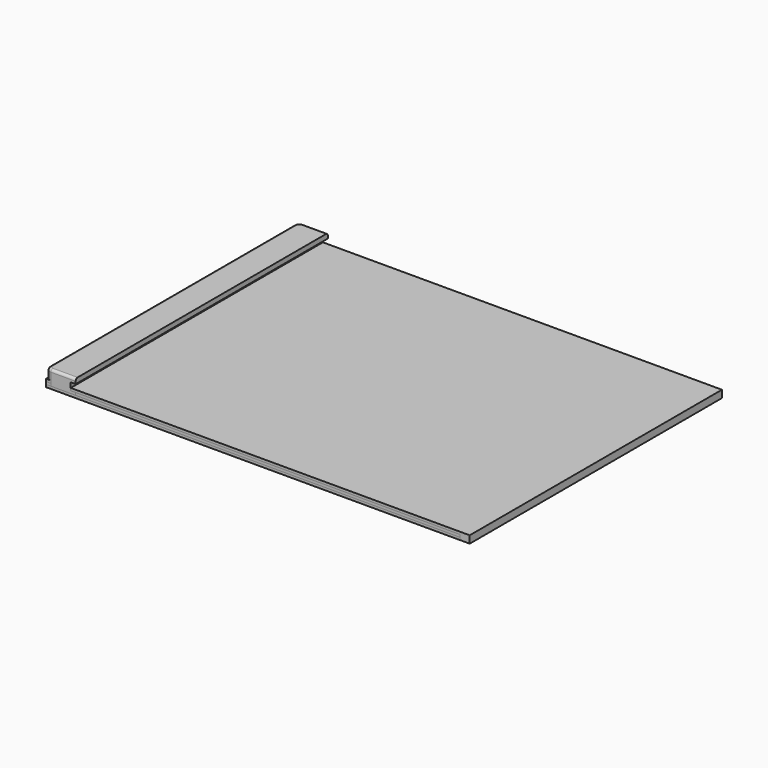
from build123d import *

# Parameters (mm, degrees)
F0_W      = 546.1
F0_H      = 406.4
F1_DEPTH  = 9.525
F2_W      = 533.4
F2_H      = 406.4
F3_DEPTH  = 6.35
F4_R      = 3.175
F5_W      = 533.4
F5_H      = 406.4
F6_DEPTH  = 6.35
F7_R      = 3.175
F8_W      = 38.1
F8_H      = 406.4
F9_DEPTH  = 22.225
F10_W     = 406.4
F10_H     = 9.525
F11_DEPTH = 6.35
F12_R     = 6.35
F13_R     = 3.175
F14_R     = 3.175


with BuildPart() as f1:
    # F0 (on Top) → F1 (new body)
    with BuildSketch(Plane.XY):
        with Locations((273.05, 203.2)):
            Rectangle(F0_W, F0_H)
    extrude(amount=F1_DEPTH)


with BuildPart() as f3:
    # F2 (on Top) → F3 (new body)
    with BuildSketch(Plane.XY):
        with Locations((266.7, 203.2)):
            Rectangle(F2_W, F2_H)
    extrude(amount=F3_DEPTH)

    # F4
    f4_edges = [f3.edges().sort_by_distance(p)[0] for p in [
        (266.7, 0, 6.35),
        (266.7, 406.4, 6.35),
    ]]
    fillet(f4_edges, radius=F4_R)


with BuildPart() as f6:
    # F5 (on Top) → F6 (new body)
    with BuildSketch(Plane.XY):
        with Locations((266.7, 203.2)):
            Rectangle(F5_W, F5_H)
    extrude(amount=F6_DEPTH)

    # F7
    f7_edges = [f6.edges().sort_by_distance(p)[0] for p in [
        (266.7, 0, 0),
        (266.7, 406.4, 0),
    ]]
    fillet(f7_edges, radius=F7_R)


with BuildPart() as f9:
    # F8 (on Top) → F9 (new body)
    with BuildSketch(Plane.XY):
        with Locations((19.05, 203.2)):
            Rectangle(F8_W, F8_H)
    extrude(amount=F9_DEPTH)

    # F10 (on face) → F11 (cut)
    with BuildSketch(Plane.YZ.offset(38.1)):
        with Locations((203.2, 11.1125)):
            Rectangle(F10_W, F10_H)
    extrude(amount=-F11_DEPTH, mode=Mode.SUBTRACT)

    # F12
    f12_edges = [f9.edges().sort_by_distance(p)[0] for p in [
        (0, 0, 11.1125),
        (0, 406.4, 11.1125),
    ]]
    fillet(f12_edges, radius=F12_R)

    # F13
    f13_edges = [f9.edges().sort_by_distance(p)[0] for p in [
        (22.225, 406.4, 0),
        (1.859872, 404.540128, 0),
        (0, 203.2, 0),
        (1.859872, 1.859872, 0),
        (22.225, 0, 0),
    ]]
    fillet(f13_edges, radius=F13_R)

    # F14
    f14_edges = [f9.edges().sort_by_distance(p)[0] for p in [
        (22.225, 0, 22.225),
        (1.859872, 1.859872, 22.225),
        (0, 203.2, 22.225),
        (1.859872, 404.540128, 22.225),
        (22.225, 406.4, 22.225),
    ]]
    fillet(f14_edges, radius=F14_R)


solid = Compound([f1.part, f3.part, f6.part, f9.part])
